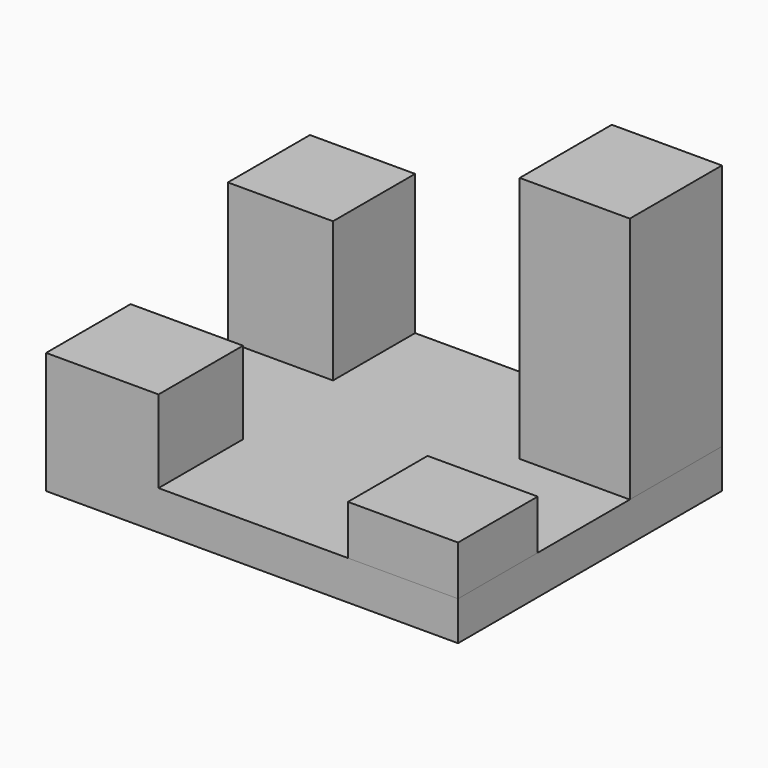
from build123d import *

# Parameters (mm, degrees)
F0_W     = 126.901738
F0_H     = 12.071144
F1_DEPTH = 101.6
F2_W     = 33.921851
F2_H     = 30.675745
F3_DEPTH = 15.24
F4_W     = 34.638179
F4_H     = 32.531466
F5_DEPTH = 25.4
F6_W     = 32.38997
F6_H     = 31.612837
F7_DEPTH = 43.18
F8_W     = 33.921851
F8_H     = 35.462128
F9_DEPTH = 76.2


with BuildPart() as f1:
    # F0 (on Front) → F1 (new body)
    with BuildSketch(Plane.XZ):
        with Locations((0.619028, -52.308278)):
            Rectangle(F0_W, F0_H)
    extrude(amount=-F1_DEPTH)

    # F2 (on face) → F3 (join)
    with BuildSketch(Plane.XY.offset(-46.272706)):
        with Locations((47.108971, 15.337872)):
            Rectangle(F2_W, F2_H)
    extrude(amount=F3_DEPTH)

    # F4 (on face) → F5 (join)
    with BuildSketch(Plane.XY.offset(-46.272706)):
        with Locations((-45.512752, 16.265733)):
            Rectangle(F4_W, F4_H)
    extrude(amount=F5_DEPTH)

    # F6 (on face) → F7 (join)
    with BuildSketch(Plane.XY.offset(-46.272706)):
        with Locations((-46.636856, 85.793581)):
            Rectangle(F6_W, F6_H)
    extrude(amount=F7_DEPTH)

    # F8 (on face) → F9 (join)
    with BuildSketch(Plane.XY.offset(-46.272706)):
        with Locations((47.108971, 83.868936)):
            Rectangle(F8_W, F8_H)
    extrude(amount=F9_DEPTH)


solid = f1.part
